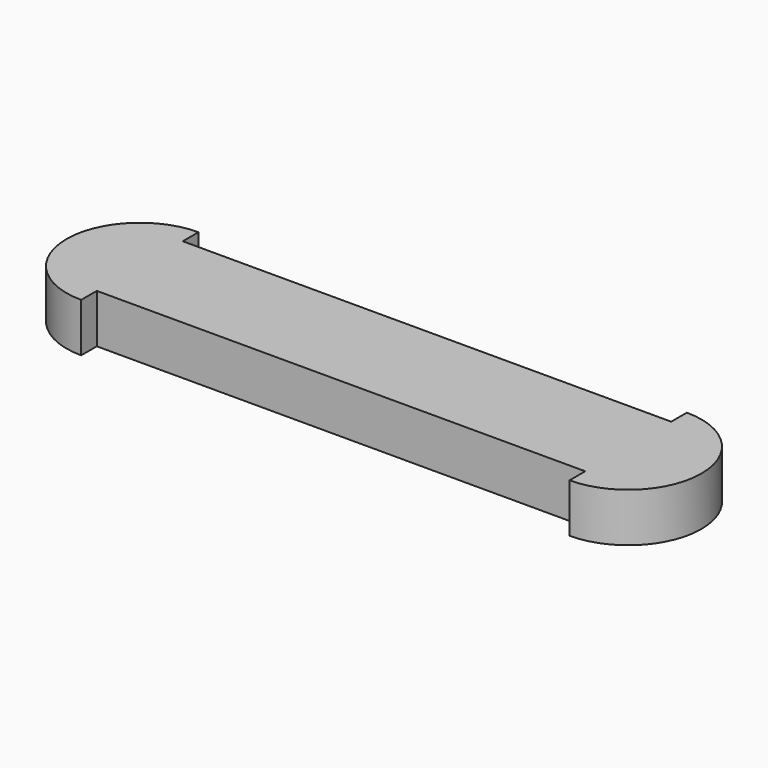
from build123d import *

# Parameters (mm, degrees)
F0_W     = 100
F0_H     = 22
F1_DEPTH = 10


with BuildPart() as f1:
    # F0 (on Top) → F1 (new body)
    with BuildSketch(Plane.XY):
        with Locations((11.818181, 1.5)):
            Rectangle(F0_W, F0_H)
        with BuildLine():
            Line((-38.181819, -9.5), (-38.181819, 12.5))
            Line((-38.181819, 12.5), (-38.181819, 16.5))
            ThreePointArc((-38.181819, 16.5), (-53.181819, 1.5), (-38.181819, -13.5))
            Line((-38.181819, -13.5), (-38.181819, -9.5))
        make_face()
        with BuildLine():
            Line((61.818181, 16.5), (61.818181, 12.5))
            Line((61.818181, 12.5), (61.818181, -9.5))
            Line((61.818181, -9.5), (61.818181, -13.5))
            ThreePointArc((61.818181, -13.5), (76.818181, 1.5), (61.818181, 16.5))
        make_face()
    extrude(amount=F1_DEPTH)


solid = f1.part
